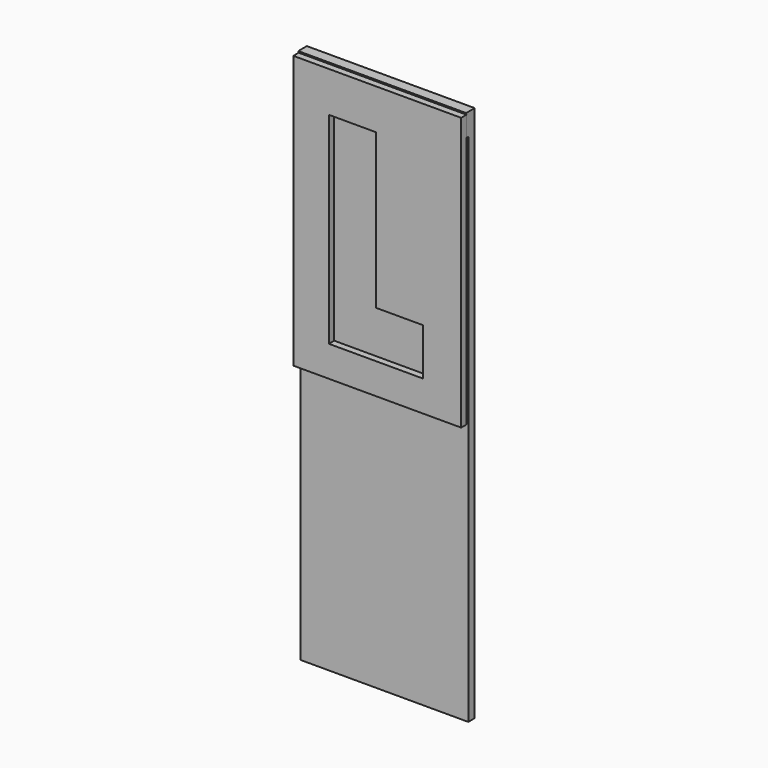
from build123d import *

# Parameters (mm, degrees)
F0_W      = 31.75
F0_H      = 101.6
F1_DEPTH  = 1.524
F2_W      = 31.75
F2_H      = 4.1754661679
F3_DEPTH  = 0.508
F5_W      = 31.75
F5_H      = 51.593744238
F6_DEPTH  = 1.27
F8_DEPTH  = 1.27
F10_DEPTH = 0.254
F12_DEPTH = 0.254


with BuildPart() as f1:
    # F0 (on Front) → F1 (new body)
    with BuildSketch(Plane.XZ):
        with Locations((-13.0295728195, 11.8000358343)):
            Rectangle(F0_W, F0_H)
    extrude(amount=F1_DEPTH)

    # F2 (on face) → F3 (join)
    with BuildSketch(Plane.XZ.offset(1.524)):
        with Locations((-13.0295728195, 60.5123027503)):
            Rectangle(F2_W, F2_H)
    extrude(amount=F3_DEPTH)

    # F5 (on offset) → F6 (join)
    with BuildSketch(Plane.XZ.offset(2.032)):
        with Locations((-12.9512589192, 36.5513293073)):
            Rectangle(F5_W, F5_H)
    extrude(amount=F6_DEPTH)

    # F7 (on face) → F8 (cut)
    with BuildSketch(Plane.XZ.offset(3.302)):
        Polygon((-13.2123797666, 54.7112040222), (-22.1023797666, 54.7112040222), (-22.1023797666, 16.5791511536), (-4.3223797666, 16.5791511536), (-4.3223797666, 25.4691511536), (-13.2123797666, 25.4691511536), align=None)
    extrude(amount=-F8_DEPTH, mode=Mode.SUBTRACT)

    # F9 (on face) → F10 (cut)
    with BuildSketch(Plane(origin=(0, 0, 0), x_dir=(-1, 0, 0), z_dir=(0, 1, 0))):
        with BuildLine():
            Line((4.9357393071, 26.6371323704), (17.3911272623, 40.1263655171))
            ThreePointArc((17.3911272623, 40.1263655171), (6.031549564, 38.1203135447), (4.9357393071, 26.6371323704))
        make_face()
        with BuildLine():
            ThreePointArc((8.9218471858, 23.0649033911), (18.1089201368, 23.6009763334), (22.5545728195, 31.6586345434))
            ThreePointArc((22.5545728195, 31.6586345434), (22.1499463329, 34.405343843), (20.9704443205, 36.9186901328))
            Line((20.9704443205, 36.9186901328), (8.9218471858, 23.0649033911))
        make_face()
    extrude(amount=-F10_DEPTH, mode=Mode.SUBTRACT)

    # F11 (on face) → F12 (cut)
    with BuildSketch(Plane(origin=(0, 0, 0), x_dir=(-1, 0, 0), z_dir=(0, 1, 0))):
        with BuildLine():
            Line((14.8511272623, 46.0878358148), (11.4618471858, 46.0878358148))
            Line((11.4618471858, 46.0878358148), (11.4618471858, 41.0537322724))
            ThreePointArc((11.4618471858, 41.0537322724), (13.1585452479, 41.1827613335), (14.8511272623, 41.0078358148))
            Line((14.8511272623, 41.0078358148), (14.8511272623, 46.0878358148))
        make_face()
        Polygon((14.8511272623, 37.3755357304), (11.4618471858, 33.7049323485), (11.4618471858, 25.9854606917), (14.8511272623, 29.8825420583), align=None)
        with BuildLine():
            ThreePointArc((14.8511272623, 41.0078358148), (13.1585452479, 41.1827613335), (11.4618471858, 41.0537322724))
            Line((11.4618471858, 41.0537322724), (11.4618471858, 33.7049323485))
            Line((11.4618471858, 33.7049323485), (14.8511272623, 37.3755357304))
            Line((14.8511272623, 37.3755357304), (14.8511272623, 41.0078358148))
        make_face()
        with BuildLine():
            Line((14.8511272623, 29.8825420583), (11.4618471858, 25.9854606917))
            Line((11.4618471858, 25.9854606917), (11.4618471858, 22.2635368144))
            ThreePointArc((11.4618471858, 22.2635368144), (13.1585452479, 22.1345077534), (14.8511272623, 22.3094332721))
            Line((14.8511272623, 22.3094332721), (14.8511272623, 29.8825420583))
        make_face()
        with BuildLine():
            ThreePointArc((14.8511272623, 22.3094332721), (13.1585452479, 22.1345077534), (11.4618471858, 22.2635368144))
            Line((11.4618471858, 22.2635368144), (11.4618471858, 17.1835368144))
            Line((11.4618471858, 17.1835368144), (14.8511272623, 17.1835368144))
            Line((14.8511272623, 17.1835368144), (14.8511272623, 22.3094332721))
        make_face()
    extrude(amount=-F12_DEPTH, mode=Mode.SUBTRACT)


solid = f1.part
